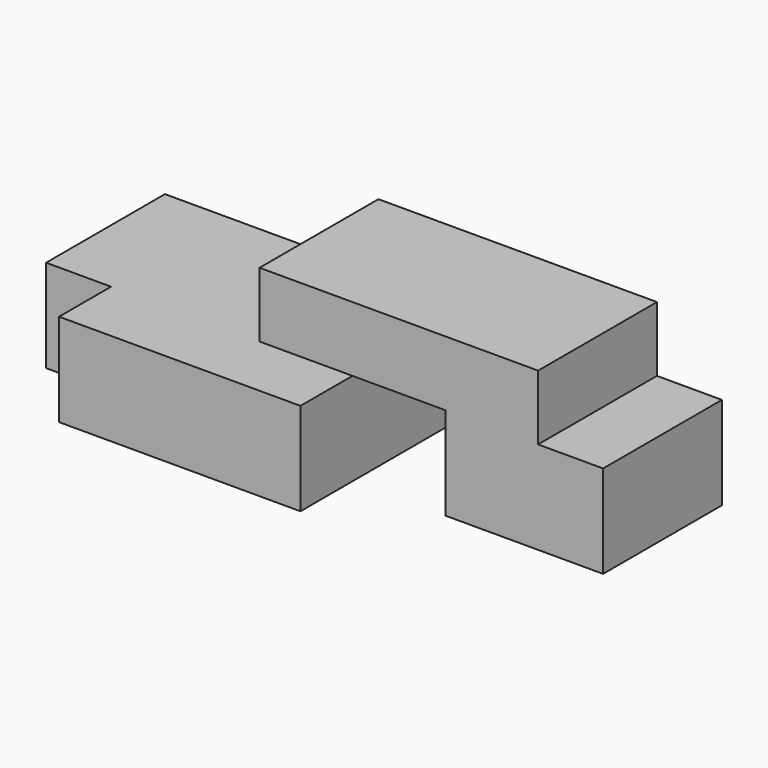
from build123d import *

# Parameters (mm, degrees)
F0_W      = 40.64
F0_H      = 25.4
F1_DEPTH  = 17.78
F2_DEPTH  = 25.4
F3_W      = 25.4
F3_H      = 40.64
F4_DEPTH  = 17.78
F5_W      = 40.64
F5_H      = 17.78
F6_DEPTH  = 50.8
F7_W      = 25.4
F7_H      = 40.64
F8_DEPTH  = 25.4
F9_W      = 40.64
F9_H      = 25.4
F10_DEPTH = 58.42
F12_DEPTH = 17.78


with BuildPart() as f1:
    # F0 (on Right) → F1 (new body)
    with BuildSketch(Plane.YZ):
        with Locations((36.7695213166, 12.7)):
            Rectangle(F0_W, F0_H)
    extrude(amount=F1_DEPTH)

    # F2 (add): a face of the model
    f2_faces = [f1.faces().sort_by_distance(p)[0] for p in [
        (0, 36.7695213166, 12.7),
    ]]
    extrude(f2_faces, amount=F2_DEPTH)

    # F3 (on face) → F4 (join)
    with BuildSketch(Plane.XY.offset(25.4)):
        with Locations((-12.7, 36.7695213166)):
            Rectangle(F3_W, F3_H)
    extrude(amount=F4_DEPTH)

    # F5 (on face) → F6 (join)
    with BuildSketch(Plane(origin=(-25.4, 0, 0), x_dir=(0, -1, 0), z_dir=(-1, 0, 0))):
        with Locations((-36.7695213166, 34.29)):
            Rectangle(F5_W, F5_H)
    extrude(amount=F6_DEPTH)

    # F7 (on face) → F8 (join)
    with BuildSketch(Plane(origin=(0, 0, 25.4), x_dir=(1, 0, 0), z_dir=(0, 0, -1))):
        with Locations((-63.5, -36.7695213166)):
            Rectangle(F7_W, F7_H)
    extrude(amount=F8_DEPTH)

    # F9 (on face) → F10 (join)
    with BuildSketch(Plane(origin=(-76.2, 0, 0), x_dir=(0, -1, 0), z_dir=(-1, 0, 0))):
        with Locations((-36.7695213166, 12.7)):
            Rectangle(F9_W, F9_H)
    extrude(amount=F10_DEPTH)

    # F11 (on face) → F12 (join)
    with BuildSketch(Plane.XZ.offset(-16.4495213166)):
        Polygon((-76.2, 25.4), (-116.84, 25.4), (-116.84, 0), (-50.8, 0), (-50.8, 25.4), align=None)
    extrude(amount=F12_DEPTH)


solid = f1.part
